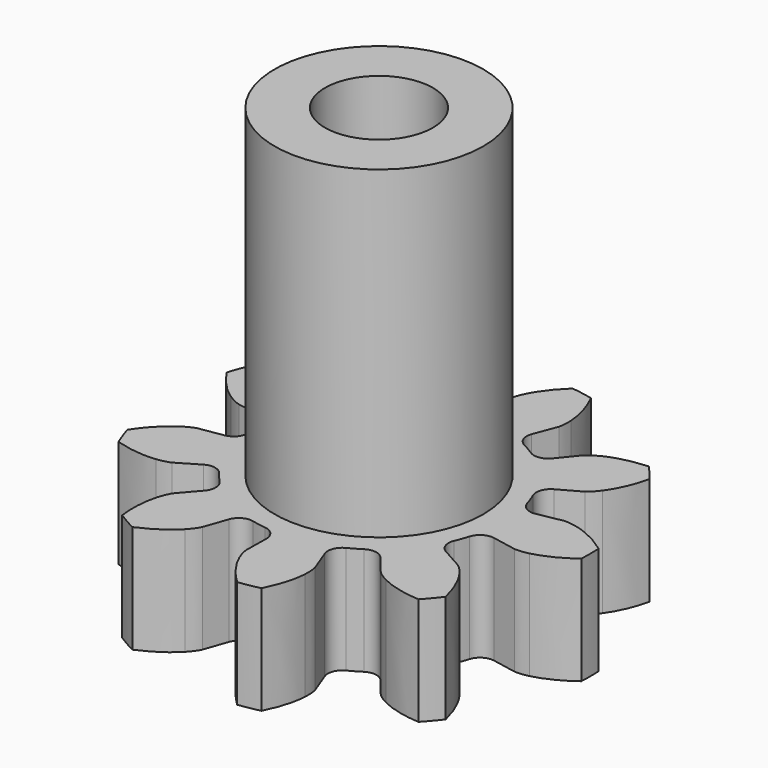
from build123d import *

# Parameters (mm, degrees)
CYLINDER002_R     = 1.5
CYLINDER002_DEPTH = 21
CYLINDER001_R     = 2.9
CYLINDER001_DEPTH = 9
CYLINDER_R        = 1.5
CYLINDER_DEPTH    = 10
EXTRUDE_DEPTH     = 3


with BuildPart() as cilindro_interior:
    # Cylinder002 → Cylinder002 (new body)
    with BuildSketch(Plane.XY.offset(-2)):
        Circle(CYLINDER002_R)
    extrude(amount=CYLINDER002_DEPTH)


with BuildPart() as cilindro_exterior:
    # Cylinder001 → Cylinder001 (new body)
    with BuildSketch(Plane.XY.offset(3)):
        Circle(CYLINDER001_R)
    extrude(amount=CYLINDER001_DEPTH)


with BuildPart() as cilindro:
    # Cylinder → Cylinder (new body)
    with BuildSketch(Plane.XY):
        Circle(CYLINDER_R)
    extrude(amount=CYLINDER_DEPTH)


with BuildPart() as engranaje_3_final:
    # InvoluteGear → Extrude (new body)
    with BuildSketch(Plane.XY):
        with BuildLine():
            Line((3.7783, -0.724438), (4.447599, -0.851782))
            add(Edge.make_bspline(
                [(4.447599, -0.851782), (4.489754, -0.856209), (4.616079, -0.86246), (4.83029, -0.812916)],
                knots=[0, 0, 0, 0, 1, 1, 1, 1], degree=3))
            add(Edge.make_bspline(
                [(4.83029, -0.812916), (5.084179, -0.752054), (5.442728, -0.61296), (5.862517, -0.301343)],
                knots=[0, 0, 0, 0, 1, 1, 1, 1], degree=3))
            ThreePointArc((5.862517, -0.301343), (5.870259, 0), (5.862517, 0.301343))
            add(Edge.make_bspline(
                [(5.862517, 0.301343), (5.442728, 0.61296), (5.084179, 0.752054), (4.83029, 0.812916)],
                knots=[0, 0, 0, 0, 1, 1, 1, 1], degree=3))
            add(Edge.make_bspline(
                [(4.83029, 0.812916), (4.616079, 0.86246), (4.489754, 0.856209), (4.447599, 0.851782)],
                knots=[0, 0, 0, 0, 1, 1, 1, 1], degree=3))
            Line((4.447599, 0.851782), (3.7783, 0.724438))
            ThreePointArc((3.7783, 0.724438), (3.496631, 0.774572), (3.320442, 0.999978))
            ThreePointArc((3.320442, 0.999978), (3.258619, 1.18604), (3.186379, 1.368311))
            ThreePointArc((3.186379, 1.368311), (3.17646, 1.654235), (3.360005, 1.873693))
            Line((3.360005, 1.873693), (3.954574, 2.206359))
            add(Edge.make_bspline(
                [(3.954574, 2.206359), (3.989711, 2.230064), (4.0905, 2.306476), (4.22275, 2.482121)],
                knots=[0, 0, 0, 0, 1, 1, 1, 1], degree=3))
            add(Edge.make_bspline(
                [(4.22275, 2.482121), (4.378118, 2.69194), (4.563375, 3.028964), (4.684648, 3.537511)],
                knots=[0, 0, 0, 0, 1, 1, 1, 1], degree=3))
            ThreePointArc((4.684648, 3.537511), (4.496879, 3.77333), (4.297249, 3.999195))
            add(Edge.make_bspline(
                [(4.297249, 3.999195), (3.775369, 3.968073), (3.411296, 3.844154), (3.177685, 3.727581)],
                knots=[0, 0, 0, 0, 1, 1, 1, 1], degree=3))
            add(Edge.make_bspline(
                [(3.177685, 3.727581), (2.981743, 3.627841), (2.888991, 3.541852), (2.859544, 3.511365)],
                knots=[0, 0, 0, 0, 1, 1, 1, 1], degree=3))
            Line((2.859544, 3.511365), (2.428686, 2.983595))
            ThreePointArc((2.428686, 2.983595), (2.18069, 2.840948), (1.900833, 2.900366))
            ThreePointArc((1.900833, 2.900366), (1.733875, 3.00316), (1.561375, 3.096353))
            ThreePointArc((1.561375, 3.096353), (1.369988, 3.309007), (1.369527, 3.595101))
            Line((1.369527, 3.595101), (1.611159, 4.23212))
            add(Edge.make_bspline(
                [(1.611159, 4.23212), (1.622839, 4.272865), (1.650931, 4.396186), (1.639337, 4.615746)],
                knots=[0, 0, 0, 0, 1, 1, 1, 1], degree=3))
            add(Edge.make_bspline(
                [(1.639337, 4.615746), (1.623487, 4.876346), (1.548767, 5.253602), (1.31478, 5.721125)],
                knots=[0, 0, 0, 0, 1, 1, 1, 1], degree=3))
            ThreePointArc((1.31478, 5.721125), (1.01936, 5.781076), (0.721251, 5.82578))
            add(Edge.make_bspline(
                [(0.721251, 5.82578), (0.341472, 5.46648), (0.14223, 5.137532), (0.038205, 4.898069)],
                knots=[0, 0, 0, 0, 1, 1, 1, 1], degree=3))
            add(Edge.make_bspline(
                [(0.038205, 4.898069), (-0.047784, 4.695715), (-0.063564, 4.570223), (-0.066524, 4.527941)],
                knots=[0, 0, 0, 0, 1, 1, 1, 1], degree=3))
            Line((-0.066524, 4.527941), (-0.057337, 3.846696))
            ThreePointArc((-0.057337, 3.846696), (-0.155621, 3.578013), (-0.408197, 3.443641))
            ThreePointArc((-0.408197, 3.443641), (-0.602168, 3.415067), (-0.794215, 3.375576))
            ThreePointArc((-0.794215, 3.375576), (-1.077516, 3.415458), (-1.261768, 3.634322))
            Line((-1.261768, 3.634322), (-1.486135, 4.277625))
            add(Edge.make_bspline(
                [(-1.486135, 4.277625), (-1.503378, 4.316345), (-1.561127, 4.428871), (-1.711139, 4.589612)],
                knots=[0, 0, 0, 0, 1, 1, 1, 1], degree=3))
            add(Edge.make_bspline(
                [(-1.711139, 4.589612), (-1.890791, 4.779055), (-2.190525, 5.020021), (-2.670288, 5.22776)],
                knots=[0, 0, 0, 0, 1, 1, 1, 1], degree=3))
            ThreePointArc((-2.670288, 5.22776), (-2.935129, 5.083793), (-3.192229, 4.926417))
            add(Edge.make_bspline(
                [(-3.192229, 4.926417), (-3.252203, 4.407061), (-3.193388, 4.027001), (-3.119151, 3.776696)],
                knots=[0, 0, 0, 0, 1, 1, 1, 1], degree=3))
            add(Edge.make_bspline(
                [(-3.119151, 3.776696), (-3.054952, 3.566412), (-2.986375, 3.460136), (-2.961465, 3.425843)],
                knots=[0, 0, 0, 0, 1, 1, 1, 1], degree=3))
            Line((-2.961465, 3.425843), (-2.516531, 2.909885))
            ThreePointArc((-2.516531, 2.909885), (-2.419115, 2.640885), (-2.526227, 2.375598))
            ThreePointArc((-2.526227, 2.375598), (-2.656451, 2.229027), (-2.778182, 2.07533))
            ThreePointArc((-2.778182, 2.07533), (-3.020839, 1.923778), (-3.302668, 1.973003))
            Line((-3.302668, 1.973003), (-3.888049, 2.321582))
            add(Edge.make_bspline(
                [(-3.888049, 2.321582), (-3.926148, 2.340159), (-4.042717, 2.389239), (-4.260955, 2.415948)],
                knots=[0, 0, 0, 0, 1, 1, 1, 1], degree=3))
            add(Edge.make_bspline(
                [(-4.260955, 2.415948), (-4.520348, 2.445591), (-4.904847, 2.437516), (-5.405899, 2.288268)],
                knots=[0, 0, 0, 0, 1, 1, 1, 1], degree=3))
            ThreePointArc((-5.405899, 2.288268), (-5.516239, 2.007747), (-5.612029, 1.721929))
            add(Edge.make_bspline(
                [(-5.612029, 1.721929), (-5.324136, 1.285529), (-5.034783, 1.032192), (-4.817022, 0.888166)],
                knots=[0, 0, 0, 0, 1, 1, 1, 1], degree=3))
            add(Edge.make_bspline(
                [(-4.817022, 0.888166), (-4.632674, 0.768345), (-4.511829, 0.731013), (-4.470703, 0.720755)],
                knots=[0, 0, 0, 0, 1, 1, 1, 1], degree=3))
            Line((-4.470703, 0.720755), (-3.798212, 0.611506))
            ThreePointArc((-3.798212, 0.611506), (-3.550678, 0.468059), (-3.462207, 0.195986))
            ThreePointArc((-3.462207, 0.195986), (-3.46775, 0), (-3.462207, -0.195986))
            ThreePointArc((-3.462207, -0.195986), (-3.550678, -0.468059), (-3.798212, -0.611506))
            Line((-3.798212, -0.611506), (-4.470703, -0.720755))
            add(Edge.make_bspline(
                [(-4.470703, -0.720755), (-4.511829, -0.731013), (-4.632674, -0.768345), (-4.817022, -0.888166)],
                knots=[0, 0, 0, 0, 1, 1, 1, 1], degree=3))
            add(Edge.make_bspline(
                [(-4.817022, -0.888166), (-5.034783, -1.032192), (-5.324136, -1.285529), (-5.612029, -1.721929)],
                knots=[0, 0, 0, 0, 1, 1, 1, 1], degree=3))
            ThreePointArc((-5.612029, -1.721929), (-5.516239, -2.007747), (-5.405899, -2.288268))
            add(Edge.make_bspline(
                [(-5.405899, -2.288268), (-4.904847, -2.437516), (-4.520348, -2.445591), (-4.260955, -2.415948)],
                knots=[0, 0, 0, 0, 1, 1, 1, 1], degree=3))
            add(Edge.make_bspline(
                [(-4.260955, -2.415948), (-4.042717, -2.389239), (-3.926148, -2.340159), (-3.888049, -2.321582)],
                knots=[0, 0, 0, 0, 1, 1, 1, 1], degree=3))
            Line((-3.888049, -2.321582), (-3.302668, -1.973003))
            ThreePointArc((-3.302668, -1.973003), (-3.020839, -1.923778), (-2.778182, -2.07533))
            ThreePointArc((-2.778182, -2.07533), (-2.656451, -2.229027), (-2.526227, -2.375598))
            ThreePointArc((-2.526227, -2.375598), (-2.419115, -2.640885), (-2.516531, -2.909885))
            Line((-2.516531, -2.909885), (-2.961465, -3.425843))
            add(Edge.make_bspline(
                [(-2.961465, -3.425843), (-2.986375, -3.460136), (-3.054952, -3.566412), (-3.119151, -3.776696)],
                knots=[0, 0, 0, 0, 1, 1, 1, 1], degree=3))
            add(Edge.make_bspline(
                [(-3.119151, -3.776696), (-3.193388, -4.027001), (-3.252203, -4.407061), (-3.192229, -4.926417)],
                knots=[0, 0, 0, 0, 1, 1, 1, 1], degree=3))
            ThreePointArc((-3.192229, -4.926417), (-2.935129, -5.083793), (-2.670288, -5.22776))
            add(Edge.make_bspline(
                [(-2.670288, -5.22776), (-2.190525, -5.020021), (-1.890791, -4.779055), (-1.711139, -4.589612)],
                knots=[0, 0, 0, 0, 1, 1, 1, 1], degree=3))
            add(Edge.make_bspline(
                [(-1.711139, -4.589612), (-1.561127, -4.428871), (-1.503378, -4.316345), (-1.486135, -4.277625)],
                knots=[0, 0, 0, 0, 1, 1, 1, 1], degree=3))
            Line((-1.486135, -4.277625), (-1.261768, -3.634322))
            ThreePointArc((-1.261768, -3.634322), (-1.077516, -3.415458), (-0.794215, -3.375576))
            ThreePointArc((-0.794215, -3.375576), (-0.602168, -3.415067), (-0.408197, -3.443641))
            ThreePointArc((-0.408197, -3.443641), (-0.155621, -3.578013), (-0.057337, -3.846696))
            Line((-0.057337, -3.846696), (-0.066524, -4.527941))
            add(Edge.make_bspline(
                [(-0.066524, -4.527941), (-0.063564, -4.570223), (-0.047784, -4.695715), (0.038205, -4.898069)],
                knots=[0, 0, 0, 0, 1, 1, 1, 1], degree=3))
            add(Edge.make_bspline(
                [(0.038205, -4.898069), (0.14223, -5.137532), (0.341472, -5.46648), (0.721251, -5.82578)],
                knots=[0, 0, 0, 0, 1, 1, 1, 1], degree=3))
            ThreePointArc((0.721251, -5.82578), (1.01936, -5.781076), (1.31478, -5.721125))
            add(Edge.make_bspline(
                [(1.31478, -5.721125), (1.548767, -5.253602), (1.623487, -4.876346), (1.639337, -4.615746)],
                knots=[0, 0, 0, 0, 1, 1, 1, 1], degree=3))
            add(Edge.make_bspline(
                [(1.639337, -4.615746), (1.650931, -4.396186), (1.622839, -4.272865), (1.611159, -4.23212)],
                knots=[0, 0, 0, 0, 1, 1, 1, 1], degree=3))
            Line((1.611159, -4.23212), (1.369527, -3.595101))
            ThreePointArc((1.369527, -3.595101), (1.369988, -3.309007), (1.561375, -3.096353))
            ThreePointArc((1.561375, -3.096353), (1.733875, -3.00316), (1.900833, -2.900366))
            ThreePointArc((1.900833, -2.900366), (2.18069, -2.840948), (2.428686, -2.983595))
            Line((2.428686, -2.983595), (2.859544, -3.511365))
            add(Edge.make_bspline(
                [(2.859544, -3.511365), (2.888991, -3.541852), (2.981743, -3.627841), (3.177685, -3.727581)],
                knots=[0, 0, 0, 0, 1, 1, 1, 1], degree=3))
            add(Edge.make_bspline(
                [(3.177685, -3.727581), (3.411296, -3.844154), (3.775369, -3.968073), (4.297249, -3.999195)],
                knots=[0, 0, 0, 0, 1, 1, 1, 1], degree=3))
            ThreePointArc((4.297249, -3.999195), (4.496879, -3.77333), (4.684648, -3.537511))
            add(Edge.make_bspline(
                [(4.684648, -3.537511), (4.563375, -3.028964), (4.378118, -2.69194), (4.22275, -2.482121)],
                knots=[0, 0, 0, 0, 1, 1, 1, 1], degree=3))
            add(Edge.make_bspline(
                [(4.22275, -2.482121), (4.0905, -2.306476), (3.989711, -2.230064), (3.954574, -2.206359)],
                knots=[0, 0, 0, 0, 1, 1, 1, 1], degree=3))
            Line((3.954574, -2.206359), (3.360005, -1.873693))
            ThreePointArc((3.360005, -1.873693), (3.17646, -1.654235), (3.186379, -1.368311))
            ThreePointArc((3.186379, -1.368311), (3.258619, -1.18604), (3.320442, -0.999978))
            ThreePointArc((3.320442, -0.999978), (3.496631, -0.774572), (3.7783, -0.724438))
        make_face()
    extrude(amount=EXTRUDE_DEPTH)

    # Cut: cut Cilindro
    add(cilindro.part, mode=Mode.SUBTRACT)

    # Fusion: union Cilindro exterior
    add(cilindro_exterior.part)

    # Cut001: cut Cilindro interior
    add(cilindro_interior.part, mode=Mode.SUBTRACT)


solid = engranaje_3_final.part
